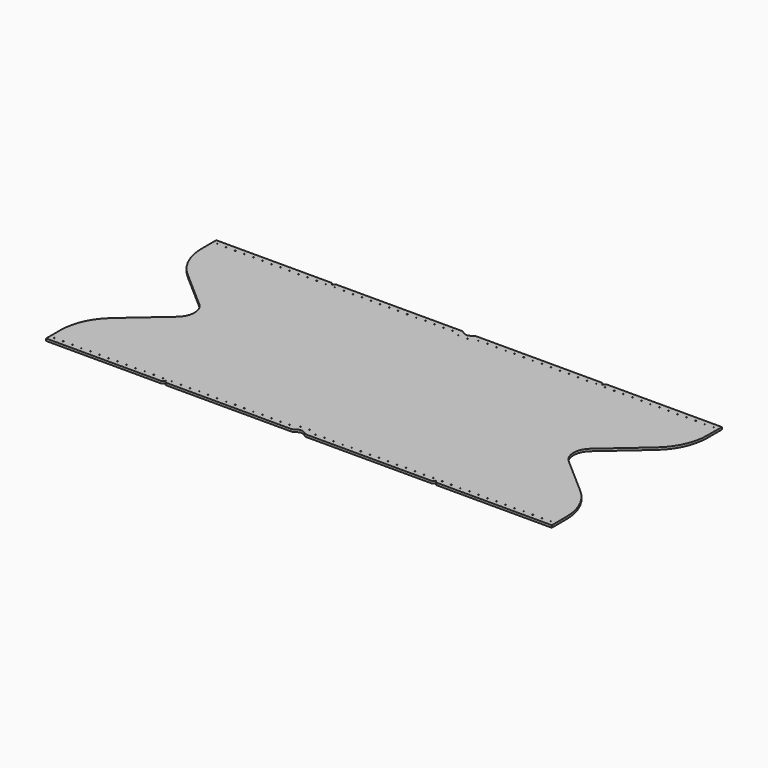
from build123d import *

# Parameters (mm, degrees)
F0_R     = 0.2
F1_DEPTH = 1


with BuildPart() as f1:
    # F0 (on Top) → F1 (new body)
    with BuildSketch(Plane.XY):
        with BuildLine():
            ThreePointArc((83.792348, 5.524522), (84.508415, 8.832742), (86.528428, 11.548735))
            Line((86.528428, 11.548735), (103.584108, 26.451882))
            ThreePointArc((103.584108, 26.451882), (109.644147, 34.599862), (111.792348, 44.524522))
            Line((111.792348, 44.524522), (111.792348, 52.524522))
            Line((111.792348, 52.524522), (61.192348, 52.524522))
            ThreePointArc((61.192348, 52.524522), (60.202399, 52.114471), (59.792348, 51.124522))
            ThreePointArc((59.792348, 51.124522), (59.382298, 52.114471), (58.392348, 52.524522))
            Line((58.392348, 52.524522), (3.64535, 52.524522))
            add(Edge.make_bspline(
                [(3.64535, 52.524522), (2.84535, 52.524522), (1.84535, 51.824522), (0.84535, 51.124522), (0.04535, 51.124522)],
                knots=[0, 0, 0, 0, 1.931321, 3.862642, 3.862642, 3.862642, 3.862642], degree=3))
            add(Edge.make_bspline(
                [(-3.55465, 52.524522), (-2.75465, 52.524522), (-1.75465, 51.824522), (-0.75465, 51.124522), (0.04535, 51.124522)],
                knots=[0, 0, 0, 0, 1.931321, 3.862642, 3.862642, 3.862642, 3.862642], degree=3))
            Line((-3.55465, 52.524522), (-58.301649, 52.524522))
            ThreePointArc((-58.301649, 52.524522), (-59.291599, 52.114471), (-59.701649, 51.124522))
            ThreePointArc((-59.701649, 51.124522), (-60.1117, 52.114471), (-61.101649, 52.524522))
            Line((-61.101649, 52.524522), (-111.701649, 52.524522))
            Line((-111.701649, 52.524522), (-111.701649, 44.524522))
            ThreePointArc((-111.701649, 44.524522), (-109.553448, 34.599862), (-103.493409, 26.451882))
            Line((-103.493409, 26.451882), (-86.437729, 11.548735))
            ThreePointArc((-86.437729, 11.548735), (-84.417716, 8.832742), (-83.701649, 5.524522))
            ThreePointArc((-83.701649, 5.524522), (-84.417716, 2.216302), (-86.437729, -0.499691))
            Line((-86.437729, -0.499691), (-103.493409, -15.402838))
            ThreePointArc((-103.493409, -15.402838), (-109.553448, -23.550818), (-111.701649, -33.475478))
            Line((-111.701649, -33.475478), (-111.701649, -41.475478))
            Line((-111.701649, -41.475478), (-61.101649, -41.475478))
            ThreePointArc((-61.101649, -41.475478), (-60.1117, -41.065428), (-59.701649, -40.075478))
            ThreePointArc((-59.701649, -40.075478), (-59.291599, -41.065428), (-58.301649, -41.475478))
            Line((-58.301649, -41.475478), (-3.55465, -41.475478))
            add(Edge.make_bspline(
                [(-3.55465, -41.475478), (-2.75465, -41.475478), (-1.75465, -40.775478), (-0.75465, -40.075478), (0.04535, -40.075478)],
                knots=[0, 0, 0, 0, 1.931321, 3.862642, 3.862642, 3.862642, 3.862642], degree=3))
            add(Edge.make_bspline(
                [(3.64535, -41.475478), (2.84535, -41.475478), (1.84535, -40.775478), (0.84535, -40.075478), (0.04535, -40.075478)],
                knots=[0, 0, 0, 0, 1.931321, 3.862642, 3.862642, 3.862642, 3.862642], degree=3))
            Line((3.64535, -41.475478), (58.392348, -41.475478))
            ThreePointArc((58.392348, -41.475478), (59.382298, -41.065428), (59.792348, -40.075478))
            ThreePointArc((59.792348, -40.075478), (60.202399, -41.065428), (61.192348, -41.475478))
            Line((61.192348, -41.475478), (111.792348, -41.475478))
            Line((111.792348, -41.475478), (111.792348, -33.475478))
            ThreePointArc((111.792348, -33.475478), (109.644147, -23.550818), (103.584108, -15.402838))
            Line((103.584108, -15.402838), (86.528428, -0.499691))
            ThreePointArc((86.528428, -0.499691), (84.508415, 2.216302), (83.792348, 5.524522))
        make_face()
        with Locations((-109.701649, -39.475478)):
            Circle(F0_R, mode=Mode.SUBTRACT)
        with Locations((-105.701649, -39.475478)):
            Circle(F0_R, mode=Mode.SUBTRACT)
        with Locations((-101.701649, -39.475478)):
            Circle(F0_R, mode=Mode.SUBTRACT)
        with Locations((-97.701649, -39.475478)):
            Circle(F0_R, mode=Mode.SUBTRACT)
        with Locations((-93.701649, -39.475478)):
            Circle(F0_R, mode=Mode.SUBTRACT)
        with Locations((-89.701649, -39.475478)):
            Circle(F0_R, mode=Mode.SUBTRACT)
        with Locations((-85.701649, -39.475478)):
            Circle(F0_R, mode=Mode.SUBTRACT)
        with Locations((-81.701649, -39.475478)):
            Circle(F0_R, mode=Mode.SUBTRACT)
        with Locations((-77.701649, -39.475478)):
            Circle(F0_R, mode=Mode.SUBTRACT)
        with Locations((-73.701649, -39.475478)):
            Circle(F0_R, mode=Mode.SUBTRACT)
        with Locations((-69.701649, -39.475478)):
            Circle(F0_R, mode=Mode.SUBTRACT)
        with Locations((-65.701649, -39.475478)):
            Circle(F0_R, mode=Mode.SUBTRACT)
        with Locations((-61.701649, -39.475478)):
            Circle(F0_R, mode=Mode.SUBTRACT)
        with Locations((-57.701649, -39.475478)):
            Circle(F0_R, mode=Mode.SUBTRACT)
        with Locations((-53.701649, -39.475478)):
            Circle(F0_R, mode=Mode.SUBTRACT)
        with Locations((-49.701649, -39.475478)):
            Circle(F0_R, mode=Mode.SUBTRACT)
        with Locations((-45.701649, -39.475478)):
            Circle(F0_R, mode=Mode.SUBTRACT)
        with Locations((-41.701649, -39.475478)):
            Circle(F0_R, mode=Mode.SUBTRACT)
        with Locations((-37.701649, -39.475478)):
            Circle(F0_R, mode=Mode.SUBTRACT)
        with Locations((-33.701649, -39.475478)):
            Circle(F0_R, mode=Mode.SUBTRACT)
        with Locations((-29.701649, -39.475478)):
            Circle(F0_R, mode=Mode.SUBTRACT)
        with Locations((-25.701649, -39.475478)):
            Circle(F0_R, mode=Mode.SUBTRACT)
        with Locations((-21.701649, -39.475478)):
            Circle(F0_R, mode=Mode.SUBTRACT)
        with Locations((-17.701649, -39.475478)):
            Circle(F0_R, mode=Mode.SUBTRACT)
        with Locations((-13.701649, -39.475478)):
            Circle(F0_R, mode=Mode.SUBTRACT)
        with Locations((-9.701649, -39.475478)):
            Circle(F0_R, mode=Mode.SUBTRACT)
        with Locations((-5.701649, -39.475478)):
            Circle(F0_R, mode=Mode.SUBTRACT)
        with Locations((-1.95465, -38.075478)):
            Circle(F0_R, mode=Mode.SUBTRACT)
        with Locations((5.792348, -39.475478)):
            Circle(F0_R, mode=Mode.SUBTRACT)
        with Locations((9.792348, -39.475478)):
            Circle(F0_R, mode=Mode.SUBTRACT)
        with Locations((13.792348, -39.475478)):
            Circle(F0_R, mode=Mode.SUBTRACT)
        with Locations((2.04535, -38.075478)):
            Circle(F0_R, mode=Mode.SUBTRACT)
        with Locations((17.792348, -39.475478)):
            Circle(F0_R, mode=Mode.SUBTRACT)
        with Locations((21.792348, -39.475478)):
            Circle(F0_R, mode=Mode.SUBTRACT)
        with Locations((25.792348, -39.475478)):
            Circle(F0_R, mode=Mode.SUBTRACT)
        with Locations((29.792348, -39.475478)):
            Circle(F0_R, mode=Mode.SUBTRACT)
        with Locations((33.792348, -39.475478)):
            Circle(F0_R, mode=Mode.SUBTRACT)
        with Locations((37.792348, -39.475478)):
            Circle(F0_R, mode=Mode.SUBTRACT)
        with Locations((41.792348, -39.475478)):
            Circle(F0_R, mode=Mode.SUBTRACT)
        with Locations((45.792348, -39.475478)):
            Circle(F0_R, mode=Mode.SUBTRACT)
        with Locations((49.792348, -39.475478)):
            Circle(F0_R, mode=Mode.SUBTRACT)
        with Locations((53.792348, -39.475478)):
            Circle(F0_R, mode=Mode.SUBTRACT)
        with Locations((57.792348, -39.475478)):
            Circle(F0_R, mode=Mode.SUBTRACT)
        with Locations((61.792348, -39.475478)):
            Circle(F0_R, mode=Mode.SUBTRACT)
        with Locations((65.792348, -39.475478)):
            Circle(F0_R, mode=Mode.SUBTRACT)
        with Locations((69.792348, -39.475478)):
            Circle(F0_R, mode=Mode.SUBTRACT)
        with Locations((73.792348, -39.475478)):
            Circle(F0_R, mode=Mode.SUBTRACT)
        with Locations((77.792348, -39.475478)):
            Circle(F0_R, mode=Mode.SUBTRACT)
        with Locations((81.792348, -39.475478)):
            Circle(F0_R, mode=Mode.SUBTRACT)
        with Locations((85.792348, -39.475478)):
            Circle(F0_R, mode=Mode.SUBTRACT)
        with Locations((89.792348, -39.475478)):
            Circle(F0_R, mode=Mode.SUBTRACT)
        with Locations((93.792348, -39.475478)):
            Circle(F0_R, mode=Mode.SUBTRACT)
        with Locations((97.792348, -39.475478)):
            Circle(F0_R, mode=Mode.SUBTRACT)
        with Locations((101.792348, -39.475478)):
            Circle(F0_R, mode=Mode.SUBTRACT)
        with Locations((105.792348, -39.475478)):
            Circle(F0_R, mode=Mode.SUBTRACT)
        with Locations((109.792348, -39.475478)):
            Circle(F0_R, mode=Mode.SUBTRACT)
        with Locations((-109.701649, 50.524522)):
            Circle(F0_R, mode=Mode.SUBTRACT)
        with Locations((-105.701649, 50.524522)):
            Circle(F0_R, mode=Mode.SUBTRACT)
        with Locations((-101.701649, 50.524522)):
            Circle(F0_R, mode=Mode.SUBTRACT)
        with Locations((-97.701649, 50.524522)):
            Circle(F0_R, mode=Mode.SUBTRACT)
        with Locations((-93.701649, 50.524522)):
            Circle(F0_R, mode=Mode.SUBTRACT)
        with Locations((-89.701649, 50.524522)):
            Circle(F0_R, mode=Mode.SUBTRACT)
        with Locations((-85.701649, 50.524522)):
            Circle(F0_R, mode=Mode.SUBTRACT)
        with Locations((-81.701649, 50.524522)):
            Circle(F0_R, mode=Mode.SUBTRACT)
        with Locations((-77.701649, 50.524522)):
            Circle(F0_R, mode=Mode.SUBTRACT)
        with Locations((-73.701649, 50.524522)):
            Circle(F0_R, mode=Mode.SUBTRACT)
        with Locations((-69.701649, 50.524522)):
            Circle(F0_R, mode=Mode.SUBTRACT)
        with Locations((-65.701649, 50.524522)):
            Circle(F0_R, mode=Mode.SUBTRACT)
        with Locations((-61.701649, 50.524522)):
            Circle(F0_R, mode=Mode.SUBTRACT)
        with Locations((-57.701649, 50.524522)):
            Circle(F0_R, mode=Mode.SUBTRACT)
        with Locations((-53.701649, 50.524522)):
            Circle(F0_R, mode=Mode.SUBTRACT)
        with Locations((-49.701649, 50.524522)):
            Circle(F0_R, mode=Mode.SUBTRACT)
        with Locations((-45.701649, 50.524522)):
            Circle(F0_R, mode=Mode.SUBTRACT)
        with Locations((-41.701649, 50.524522)):
            Circle(F0_R, mode=Mode.SUBTRACT)
        with Locations((-37.701649, 50.524522)):
            Circle(F0_R, mode=Mode.SUBTRACT)
        with Locations((-33.701649, 50.524522)):
            Circle(F0_R, mode=Mode.SUBTRACT)
        with Locations((-29.701649, 50.524522)):
            Circle(F0_R, mode=Mode.SUBTRACT)
        with Locations((-25.701649, 50.524522)):
            Circle(F0_R, mode=Mode.SUBTRACT)
        with Locations((-21.701649, 50.524522)):
            Circle(F0_R, mode=Mode.SUBTRACT)
        with Locations((-17.701649, 50.524522)):
            Circle(F0_R, mode=Mode.SUBTRACT)
        with Locations((-1.95465, 49.124522)):
            Circle(F0_R, mode=Mode.SUBTRACT)
        with Locations((-13.701649, 50.524522)):
            Circle(F0_R, mode=Mode.SUBTRACT)
        with Locations((-9.701649, 50.524522)):
            Circle(F0_R, mode=Mode.SUBTRACT)
        with Locations((-5.701649, 50.524522)):
            Circle(F0_R, mode=Mode.SUBTRACT)
        with Locations((2.04535, 49.124522)):
            Circle(F0_R, mode=Mode.SUBTRACT)
        with Locations((5.792348, 50.524522)):
            Circle(F0_R, mode=Mode.SUBTRACT)
        with Locations((9.792348, 50.524522)):
            Circle(F0_R, mode=Mode.SUBTRACT)
        with Locations((13.792348, 50.524522)):
            Circle(F0_R, mode=Mode.SUBTRACT)
        with Locations((17.792348, 50.524522)):
            Circle(F0_R, mode=Mode.SUBTRACT)
        with Locations((21.792348, 50.524522)):
            Circle(F0_R, mode=Mode.SUBTRACT)
        with Locations((25.792348, 50.524522)):
            Circle(F0_R, mode=Mode.SUBTRACT)
        with Locations((29.792348, 50.524522)):
            Circle(F0_R, mode=Mode.SUBTRACT)
        with Locations((33.792348, 50.524522)):
            Circle(F0_R, mode=Mode.SUBTRACT)
        with Locations((37.792348, 50.524522)):
            Circle(F0_R, mode=Mode.SUBTRACT)
        with Locations((41.792348, 50.524522)):
            Circle(F0_R, mode=Mode.SUBTRACT)
        with Locations((45.792348, 50.524522)):
            Circle(F0_R, mode=Mode.SUBTRACT)
        with Locations((49.792348, 50.524522)):
            Circle(F0_R, mode=Mode.SUBTRACT)
        with Locations((53.792348, 50.524522)):
            Circle(F0_R, mode=Mode.SUBTRACT)
        with Locations((57.792348, 50.524522)):
            Circle(F0_R, mode=Mode.SUBTRACT)
        with Locations((61.792348, 50.524522)):
            Circle(F0_R, mode=Mode.SUBTRACT)
        with Locations((65.792348, 50.524522)):
            Circle(F0_R, mode=Mode.SUBTRACT)
        with Locations((69.792348, 50.524522)):
            Circle(F0_R, mode=Mode.SUBTRACT)
        with Locations((73.792348, 50.524522)):
            Circle(F0_R, mode=Mode.SUBTRACT)
        with Locations((77.792348, 50.524522)):
            Circle(F0_R, mode=Mode.SUBTRACT)
        with Locations((81.792348, 50.524522)):
            Circle(F0_R, mode=Mode.SUBTRACT)
        with Locations((85.792348, 50.524522)):
            Circle(F0_R, mode=Mode.SUBTRACT)
        with Locations((89.792348, 50.524522)):
            Circle(F0_R, mode=Mode.SUBTRACT)
        with Locations((93.792348, 50.524522)):
            Circle(F0_R, mode=Mode.SUBTRACT)
        with Locations((97.792348, 50.524522)):
            Circle(F0_R, mode=Mode.SUBTRACT)
        with Locations((101.792348, 50.524522)):
            Circle(F0_R, mode=Mode.SUBTRACT)
        with Locations((105.792348, 50.524522)):
            Circle(F0_R, mode=Mode.SUBTRACT)
        with Locations((109.792348, 50.524522)):
            Circle(F0_R, mode=Mode.SUBTRACT)
    extrude(amount=F1_DEPTH)


solid = f1.part
